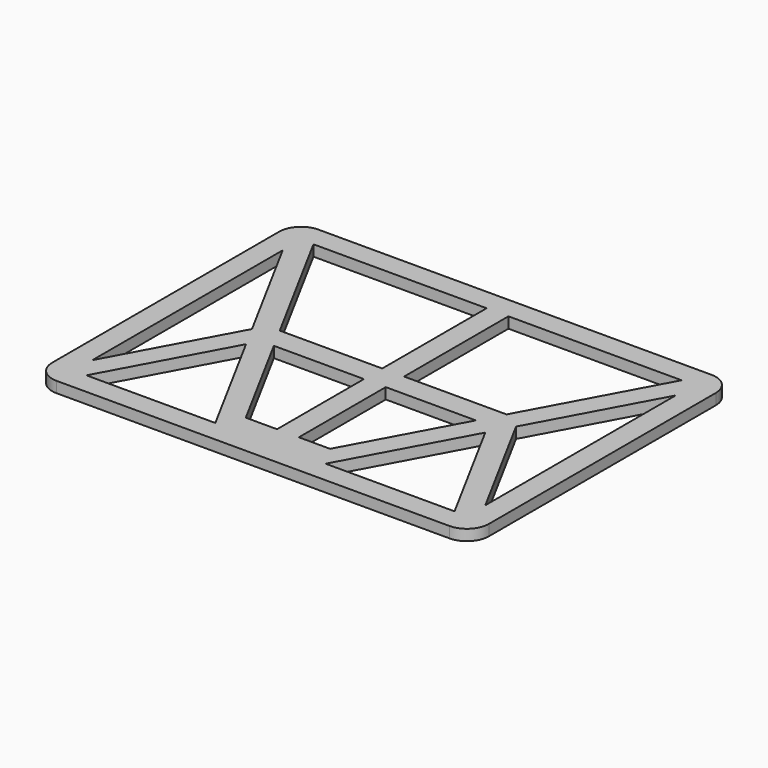
from build123d import *

# Parameters (mm, degrees)
F0_W     = 200
F0_H     = 150
F1_DEPTH = 5
F2_R     = 10


with BuildPart() as f1:
    # F0 (on Top) → F1 (new body)
    with BuildSketch(Plane.XY):
        Rectangle(F0_W, F0_H)
        Polygon((-90, 54.5020430277), (-90, 65), (-84.31360664, 65), (-5, 65), (5, 65), (84.31360664, 65), (90, 65), (90, 54.5020430277), (90, -54.5020430277), (90, -65), (84.31360664, -65), (25.2697266933, -65), (25, -65), (25, -55), (19.31360664, -55), (5, -55), (-5, -55), (-19.31360664, -55), (-25, -55), (-25, -65), (-25.2697266933, -65), (-84.31360664, -65), (-90, -65), (-90, -54.5020430277), align=None, mode=Mode.SUBTRACT)
        Polygon((-19.31360664, -55), (-46.2620766267, -5.2489784861), (-51.9484699867, -5.2489784861), (-54.7916666667, -10.4979569723), (-25.2697266933, -65), (-25, -65), (-25, -55), align=None)
        Polygon((0, -5.2489784861), (-5, -5.2489784861), (-5, -55), (5, -55), (5, -5.2489784861), align=None)
        Polygon((0, 5.2489784861), (-5, 5.2489784861), (-5, -5.2489784861), (0, -5.2489784861), (5, -5.2489784861), (5, 5.2489784861), align=None)
        Polygon((5, 65), (-5, 65), (-5, 5.2489784861), (0, 5.2489784861), (5, 5.2489784861), align=None)
        Polygon((51.9484699867, -5.2489784861), (46.2620766267, -5.2489784861), (19.31360664, -55), (25, -55), (25, -65), (25.2697266933, -65), (54.7916666667, -10.4979569723), align=None)
        Polygon((-60.4780600266, 0), (-90, -54.5020430277), (-90, -65), (-84.31360664, -65), (-54.7916666667, -10.4979569723), align=None)
        Polygon((-84.31360664, 65), (-90, 65), (-90, 54.5020430277), (-60.4780600266, 0), (-57.6348633467, 5.2489784861), (-51.9484699867, 5.2489784861), align=None)
        Polygon((-46.2620766267, -5.2489784861), (-51.9484699867, 5.2489784861), (-57.6348633467, 5.2489784861), (-60.4780600266, 0), (-54.7916666667, -10.4979569723), (-51.9484699867, -5.2489784861), align=None)
        Polygon((0, 5.2489784861), (-5, 5.2489784861), (-5, -5.2489784861), (0, -5.2489784861), (5, -5.2489784861), (5, 5.2489784861), align=None)
        Polygon((-5, 5.2489784861), (-51.9484699867, 5.2489784861), (-46.2620766267, -5.2489784861), (-5, -5.2489784861), align=None)
        Polygon((51.9484699867, 5.2489784861), (5, 5.2489784861), (5, -5.2489784861), (46.2620766267, -5.2489784861), align=None)
        Polygon((57.6348633467, 5.2489784861), (51.9484699867, 5.2489784861), (46.2620766267, -5.2489784861), (51.9484699867, -5.2489784861), (54.7916666667, -10.4979569723), (60.4780600266, 0), align=None)
        Polygon((90, -65), (90, -54.5020430277), (60.4780600266, 0), (54.7916666667, -10.4979569723), (84.31360664, -65), align=None)
        Polygon((90, 65), (84.31360664, 65), (51.9484699867, 5.2489784861), (57.6348633467, 5.2489784861), (60.4780600266, 0), (90, 54.5020430277), align=None)
    extrude(amount=F1_DEPTH)

    # F2
    f2_edges = [f1.edges().sort_by_distance(p)[0] for p in [
        (-100, -75, 2.5),
        (100, -75, 2.5),
        (100, 75, 2.5),
        (-100, 75, 2.5),
    ]]
    fillet(f2_edges, radius=F2_R)


solid = f1.part
